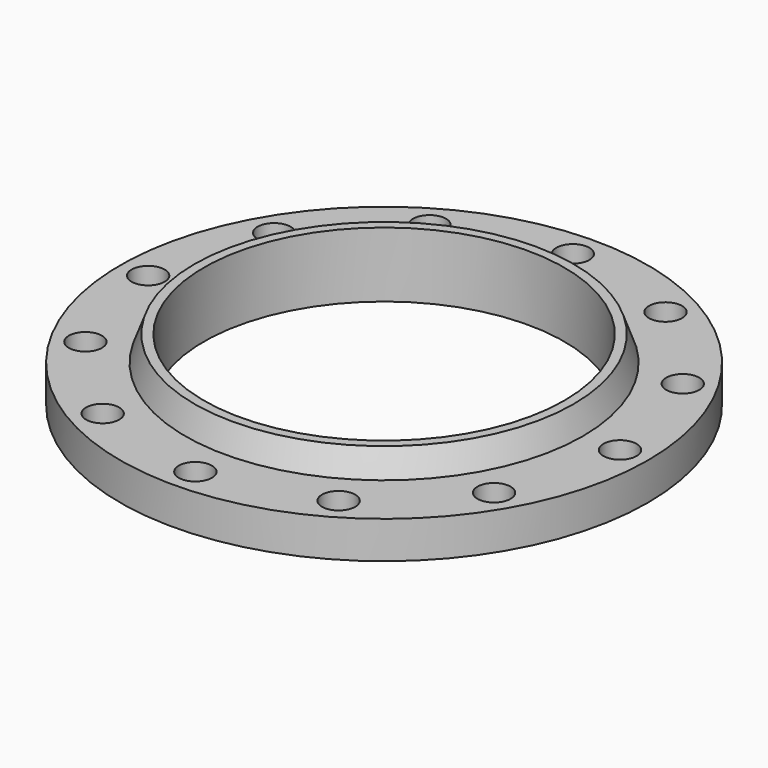
from build123d import *

# Parameters (mm, degrees)
F2_R     = 12.7
F3_DEPTH = 30.601


with BuildPart() as f1:
    # F0 (on Front) → F1 (revolve)
    with BuildSketch(Plane.XZ):
        Polygon((138.25, 50), (138.25, 0), (161.9, 0), (161.9, 2), (202.5, 2), (202.5, 30.6), (152.5, 30.6), (145.438977, 50), align=None)
    revolve(axis=Axis((0, 0, 25), (0, 0, 1)))

    # F2 (on face) → F3 (cut, through all)
    with BuildSketch(Plane.XY.offset(30.6)):
        with Locations((0, 181)):
            Circle(F2_R)
        with Locations((-90.5, 156.750598)):
            Circle(F2_R)
        with Locations((-156.750598, 90.5)):
            Circle(F2_R)
        with Locations((-181, 0)):
            Circle(F2_R)
        with Locations((-156.750598, -90.5)):
            Circle(F2_R)
        with Locations((-90.5, -156.750598)):
            Circle(F2_R)
        with Locations((0, -181)):
            Circle(F2_R)
        with Locations((90.5, -156.750598)):
            Circle(F2_R)
        with Locations((156.750598, -90.5)):
            Circle(F2_R)
        with Locations((181, 0)):
            Circle(F2_R)
        with Locations((156.750598, 90.5)):
            Circle(F2_R)
        with Locations((90.5, 156.750598)):
            Circle(F2_R)
    extrude(amount=-F3_DEPTH, mode=Mode.SUBTRACT)


solid = f1.part
